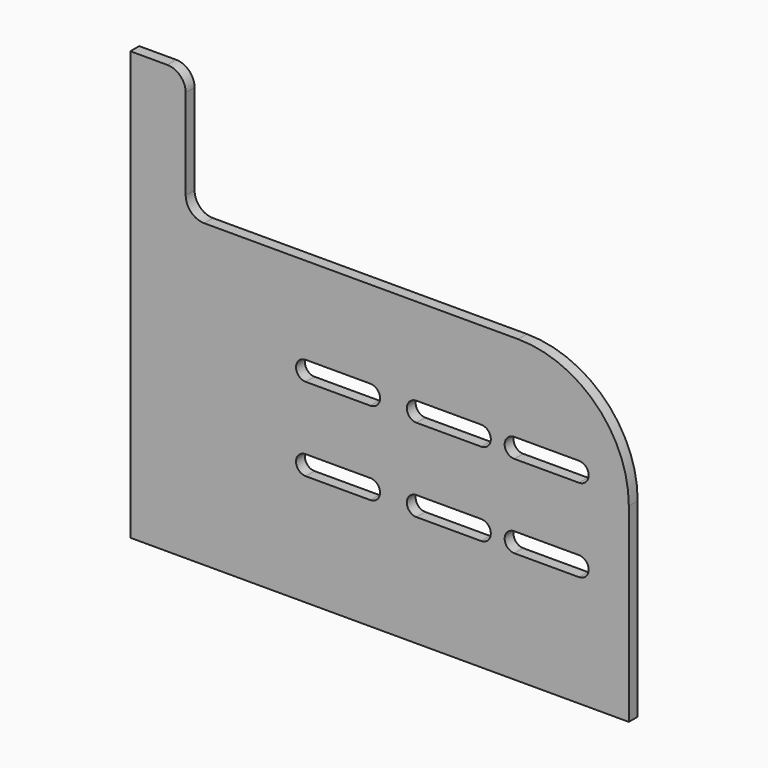
from build123d import *

# Parameters (mm, degrees)
F1_DEPTH = 6


with BuildPart() as f1:
    # F0 (on Front) → F1 (new body)
    with BuildSketch(Plane.XZ):
        with BuildLine():
            Line((0, 163), (0, 0))
            Line((0, 0), (270, 0))
            Line((270, 0), (270, 103))
            ThreePointArc((270, 103), (252.426407, 145.426407), (210, 163))
            Line((210, 163), (40, 163))
            ThreePointArc((40, 163), (32.928932, 165.928932), (30, 173))
            Line((30, 173), (30, 222))
            ThreePointArc((30, 222), (27.071068, 229.071068), (20, 232))
            Line((20, 232), (0, 232))
            Line((0, 232), (0, 163))
        make_face()
        with BuildLine():
            ThreePointArc((95, 60.25), (89.75, 65.5), (95, 70.75))
            Line((95, 70.75), (130, 70.75))
            ThreePointArc((130, 70.75), (135.25, 65.5), (130, 60.25))
            Line((130, 60.25), (95, 60.25))
        make_face(mode=Mode.SUBTRACT)
        with BuildLine():
            ThreePointArc((95, 105.25), (89.75, 110.5), (95, 115.75))
            Line((95, 115.75), (130, 115.75))
            ThreePointArc((130, 115.75), (135.25, 110.5), (130, 105.25))
            Line((130, 105.25), (95, 105.25))
        make_face(mode=Mode.SUBTRACT)
        with BuildLine():
            ThreePointArc((155, 60.25), (149.75, 65.5), (155, 70.75))
            Line((155, 70.75), (190, 70.75))
            ThreePointArc((190, 70.75), (195.25, 65.5), (190, 60.25))
            Line((190, 60.25), (155, 60.25))
        make_face(mode=Mode.SUBTRACT)
        with BuildLine():
            ThreePointArc((155, 105.25), (149.75, 110.5), (155, 115.75))
            Line((155, 115.75), (190, 115.75))
            ThreePointArc((190, 115.75), (195.25, 110.5), (190, 105.25))
            Line((190, 105.25), (155, 105.25))
        make_face(mode=Mode.SUBTRACT)
        with BuildLine():
            Line((243, 60.25), (208, 60.25))
            ThreePointArc((208, 60.25), (202.75, 65.5), (208, 70.75))
            Line((208, 70.75), (243, 70.75))
            ThreePointArc((243, 70.75), (248.25, 65.5), (243, 60.25))
        make_face(mode=Mode.SUBTRACT)
        with BuildLine():
            ThreePointArc((243, 115.75), (248.25, 110.5), (243, 105.25))
            Line((243, 105.25), (208, 105.25))
            ThreePointArc((208, 105.25), (202.75, 110.5), (208, 115.75))
            Line((208, 115.75), (243, 115.75))
        make_face(mode=Mode.SUBTRACT)
    extrude(amount=F1_DEPTH)


solid = f1.part
